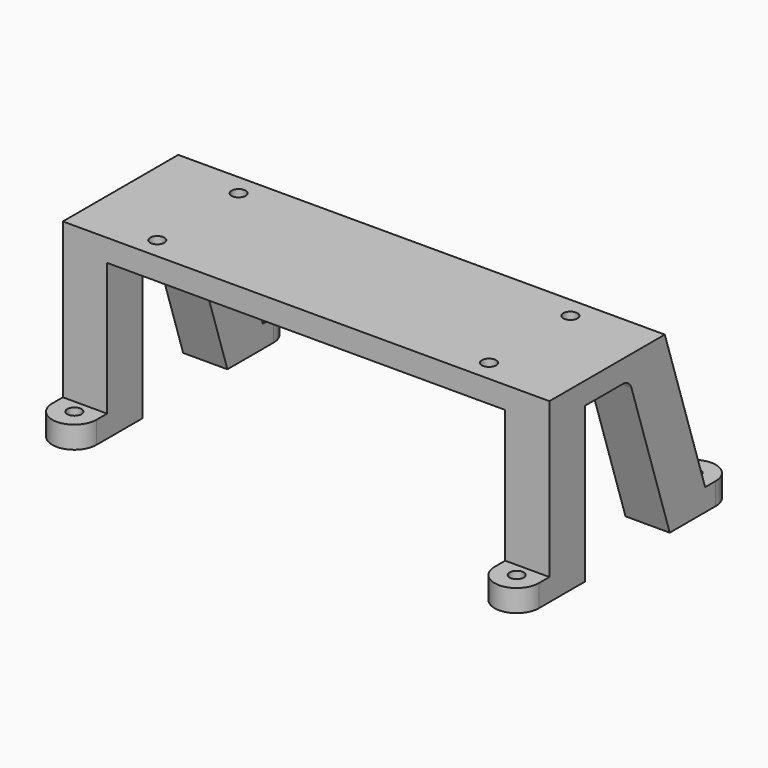
from build123d import *

# Parameters (mm, degrees)
SKETCH038_W      = 110
SKETCH038_H      = 32.6
PAD020_DEPTH     = 5
SKETCH039_R      = 1.6
POCKET018_DEPTH  = 5
SKETCH040_W      = 10
SKETCH040_H      = 21.4
SKETCH040_H_2    = 10
PAD021_DEPTH     = 35
MIRROREDSKETCH_R = 1.6
PAD022_DEPTH     = 5
POCKET019_DEPTH  = 110
FILLET012_R      = 2.5


with BuildPart() as part:
    # Sketch038 → Pad020 (new body)
    with BuildSketch(Plane.XY):
        Rectangle(SKETCH038_W, SKETCH038_H)
    extrude(amount=-PAD020_DEPTH)

    # Sketch039 (on Face6 of Pad020) → Pocket018 (cut)
    with BuildSketch(Plane(origin=(0, 0, -5), x_dir=(1, 0, 0), z_dir=(0, 0, -1))):
        with Locations((-37.5, 11.5)):
            Circle(SKETCH039_R)
        with Locations((-37.5, -11.5)):
            Circle(SKETCH039_R)
        with Locations((37.5, -11.5)):
            Circle(SKETCH039_R)
        with Locations((37.5, 11.5)):
            Circle(SKETCH039_R)
    extrude(amount=-POCKET018_DEPTH, mode=Mode.SUBTRACT)

    # Sketch040 (on Face4 of Pocket018) → Pad021 (join)
    with BuildSketch(Plane.XY):
        with Locations((-50, 17)):
            Rectangle(SKETCH040_W, SKETCH040_H)
        with Locations((50, 17)):
            Rectangle(SKETCH040_W, SKETCH040_H)
        with Locations((50, -11.3)):
            Rectangle(SKETCH040_W, SKETCH040_H_2)
        with Locations((-50, -11.3)):
            Rectangle(SKETCH040_W, SKETCH040_H_2)
    extrude(amount=-PAD021_DEPTH)

    # MirroredSketch (on Face35 of Pad021) → Pad022 (join)
    with BuildSketch(Plane(origin=(0, 0, -35), x_dir=(1, 0, 0), z_dir=(0, 0, -1))):
        with BuildLine():
            Line((-45, -27.7), (-45, -6.3))
            Line((-45, -6.3), (-55, -6.3))
            Line((-55, -6.3), (-55, -27.7))
            Line((-55, -27.7), (-55, -30.7))
            ThreePointArc((-55, -30.7), (-50, -35.7), (-45, -30.7))
            Line((-45, -27.7), (-45, -30.7))
        make_face()
        with Locations((-50, -30.7)):
            Circle(MIRROREDSKETCH_R, mode=Mode.SUBTRACT)
        with BuildLine():
            Line((55, -27.7), (55, -6.3))
            Line((55, -6.3), (45, -6.3))
            Line((45, -6.3), (45, -27.7))
            Line((45, -27.7), (45, -30.7))
            ThreePointArc((45, -30.7), (49.999989, -35.7), (55, -30.700021))
            Line((55, -27.7), (55, -30.700021))
        make_face()
        with Locations((50, -30.7)):
            Circle(MIRROREDSKETCH_R, mode=Mode.SUBTRACT)
        with BuildLine():
            Line((45, 6.3), (55, 6.3))
            Line((55, 6.3), (55, 16.3))
            Line((55, 16.3), (55, 19.3))
            ThreePointArc((55, 19.3), (50, 24.3), (45, 19.3))
            Line((45, 16.3), (45, 19.3))
            Line((45, 16.3), (45, 6.3))
        make_face()
        with Locations((50, 19.3)):
            Circle(MIRROREDSKETCH_R, mode=Mode.SUBTRACT)
        with BuildLine():
            Line((-55, 6.3), (-45, 6.3))
            Line((-45, 6.3), (-45, 16.3))
            Line((-45, 16.3), (-45, 19.3))
            ThreePointArc((-45, 19.3), (-50, 24.3), (-55, 19.3))
            Line((-55, 16.3), (-55, 19.3))
            Line((-55, 16.3), (-55, 6.3))
        make_face()
        with Locations((-50, 19.3)):
            Circle(MIRROREDSKETCH_R, mode=Mode.SUBTRACT)
    extrude(amount=PAD022_DEPTH)

    # Sketch041 (on Face44 of Pad022) → Pocket019 (cut)
    with BuildSketch(Plane.YZ.offset(55)):
        Polygon((16.3, 0), (27.7, -35), (27.7, 0), align=None)
        Polygon((17.7, -40), (6.3, -5), (6.3, -40), align=None)
    extrude(amount=-POCKET019_DEPTH, mode=Mode.SUBTRACT)

    # Fillet012
    fillet012_edges = [part.edges().sort_by_distance(p)[0] for p in [
        (-50, 6.3, -5),
        (50, 6.3, -5),
    ]]
    fillet(fillet012_edges, radius=FILLET012_R)


solid = part.part
